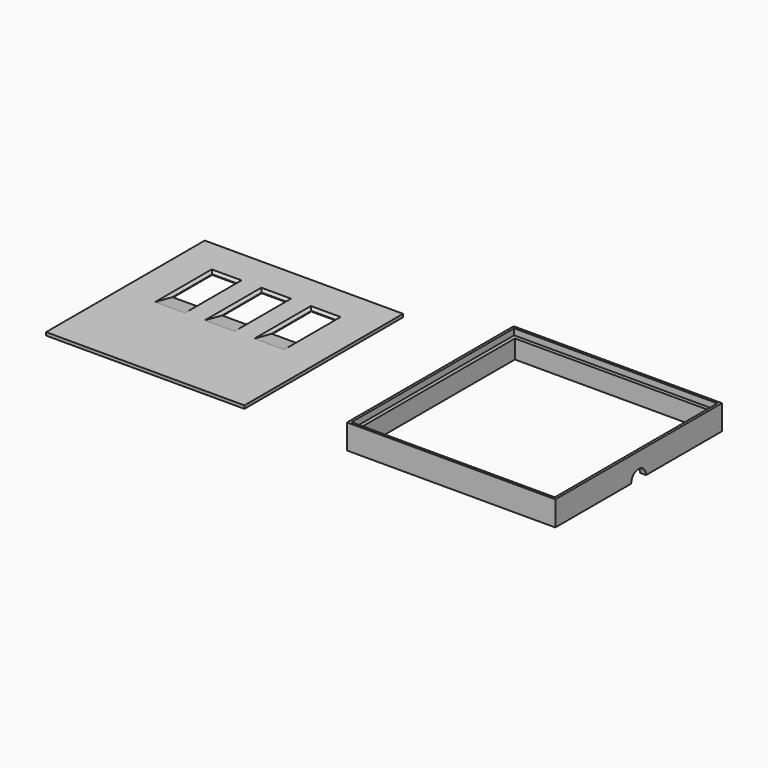
from build123d import *

# Parameters (mm, degrees)
SKETCH_W        = 160
SKETCH_H        = 160
SKETCH_W_2      = 20
SKETCH_H_2      = 40
PAD_DEPTH       = 2.5
CHAMFER_1_SIZE2 = 15
CHAMFER_1_SIZE  = 2
CHAMFER_2_SIZE2 = 15
CHAMFER_2_SIZE  = 2
CHAMFER_3_SIZE2 = 15
CHAMFER_3_SIZE  = 2
CHAMFER001_SIZE = 2
SKETCH001_W     = 168
SKETCH001_H     = 168
SKETCH001_W_2   = 158
SKETCH001_H_2   = 158
PAD001_DEPTH    = 20
SKETCH002_W     = 164
SKETCH002_H     = 164
POCKET_DEPTH    = 5
SKETCH003_R     = 7.5
POCKET001_DEPTH = 15


with BuildPart() as backplate:
    # Sketch → Pad (new body)
    with BuildSketch(Plane.XY):
        Rectangle(SKETCH_W, SKETCH_H)
        with Locations((-40, 30)):
            Rectangle(SKETCH_W_2, SKETCH_H_2, mode=Mode.SUBTRACT)
        with Locations((0, 30)):
            Rectangle(SKETCH_W_2, SKETCH_H_2, mode=Mode.SUBTRACT)
        with Locations((40, 30)):
            Rectangle(SKETCH_W_2, SKETCH_H_2, mode=Mode.SUBTRACT)
    extrude(amount=PAD_DEPTH)

    # Chamfer 1
    chamfer_1_edges = [backplate.edges().sort_by_distance(p)[0] for p in [
        (40, 10, 2.5),
    ]]
    chamfer_1_side = backplate.faces().sort_by_distance((40, 10, 1.25))[0]
    chamfer(chamfer_1_edges, length=CHAMFER_1_SIZE, length2=CHAMFER_1_SIZE2, reference=chamfer_1_side)

    # Chamfer 2
    chamfer_2_edges = [backplate.edges().sort_by_distance(p)[0] for p in [
        (0, 10, 2.5),
    ]]
    chamfer_2_side = backplate.faces().sort_by_distance((0, 10, 1.25))[0]
    chamfer(chamfer_2_edges, length=CHAMFER_2_SIZE, length2=CHAMFER_2_SIZE2, reference=chamfer_2_side)

    # Chamfer 3
    chamfer_3_edges = [backplate.edges().sort_by_distance(p)[0] for p in [
        (-40, 10, 2.5),
    ]]
    chamfer_3_side = backplate.faces().sort_by_distance((-40, 10, 1.25))[0]
    chamfer(chamfer_3_edges, length=CHAMFER_3_SIZE, length2=CHAMFER_3_SIZE2, reference=chamfer_3_side)

    # Chamfer001
    chamfer001_edges = [backplate.edges().sort_by_distance(p)[0] for p in [
        (-50, 2.5, 2.5),
        (-50, 30, 2.5),
        (-40, 50, 2.5),
        (-30, 30, 2.5),
        (-30, 2.5, 2.5),
        (-10, 2.5, 2.5),
        (-10, 30, 2.5),
        (0, 50, 2.5),
        (10, 30, 2.5),
        (10, 2.5, 2.5),
        (30, 2.5, 2.5),
        (30, 30, 2.5),
        (40, 50, 2.5),
        (50, 30, 2.5),
        (50, 2.5, 2.5),
    ]]
    chamfer(chamfer001_edges, length=CHAMFER001_SIZE)


with BuildPart() as frame:
    # Sketch001 → Pad001 (new body)
    with BuildSketch(Plane.XY):
        with Locations((250, 0)):
            Rectangle(SKETCH001_W, SKETCH001_H)
        with Locations((250, 0)):
            Rectangle(SKETCH001_W_2, SKETCH001_H_2, mode=Mode.SUBTRACT)
    extrude(amount=PAD001_DEPTH)

    # Sketch002 (on Face10 of Pad001) → Pocket (cut)
    with BuildSketch(Plane.XY.offset(20)):
        with Locations((250, 0)):
            Rectangle(SKETCH002_W, SKETCH002_H)
    extrude(amount=-POCKET_DEPTH, mode=Mode.SUBTRACT)

    # Sketch003 (on Face6 of Pocket) → Pocket001 (cut)
    with BuildSketch(Plane.YZ.offset(334)):
        Circle(SKETCH003_R)
    extrude(amount=-POCKET001_DEPTH, mode=Mode.SUBTRACT)


solid = Compound([backplate.part, frame.part])
